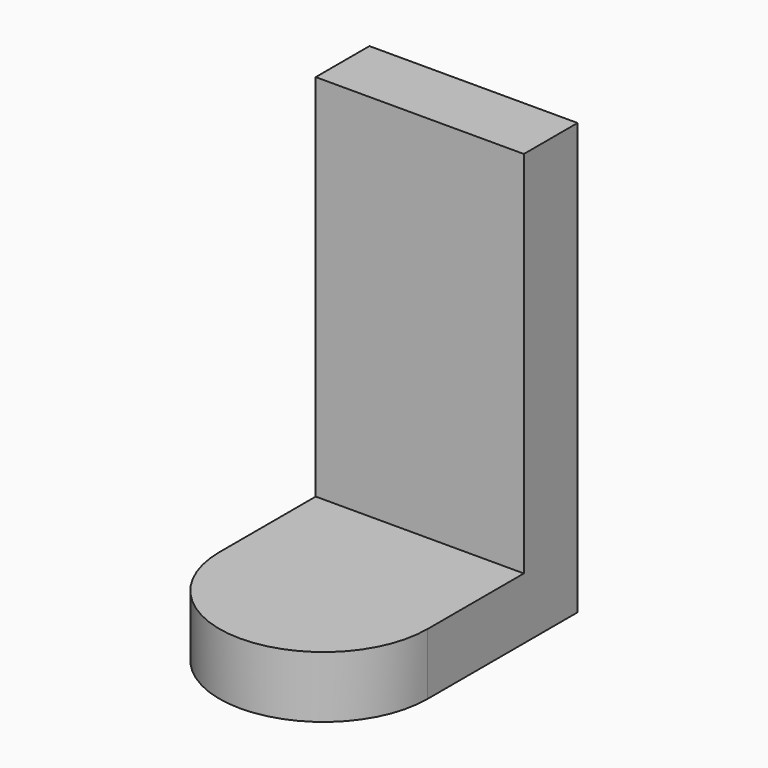
from build123d import *

# Parameters (mm, degrees)
F0_W     = 42.949088
F0_H     = 77.354542
F1_DEPTH = 12.7
F3_DEPTH = 25.4
F4_W     = 42.949088
F4_H     = 13.854544
F5_DEPTH = 76.2


with BuildPart() as f1:
    # F0 (on Top) → F1 (new body)
    with BuildSketch(Plane.XY):
        Rectangle(F0_W, F0_H)
    extrude(amount=F1_DEPTH)

    # F2 (on face) → F3 (cut)
    with BuildSketch(Plane.XY.offset(12.7)):
        with BuildLine():
            ThreePointArc((21.474544, 0), (0, -21.474544), (-21.474544, 0))
            Line((-21.474544, 0), (-21.474544, -38.677271))
            Line((-21.474544, -38.677271), (21.474544, -38.677271))
            Line((21.474544, -38.677271), (21.474544, 0))
        make_face()
    extrude(amount=-F3_DEPTH, mode=Mode.SUBTRACT)

    # F4 (on face) → F5 (join)
    with BuildSketch(Plane.XY.offset(12.7)):
        with Locations((0, 31.749999)):
            Rectangle(F4_W, F4_H)
    extrude(amount=F5_DEPTH)


solid = f1.part
